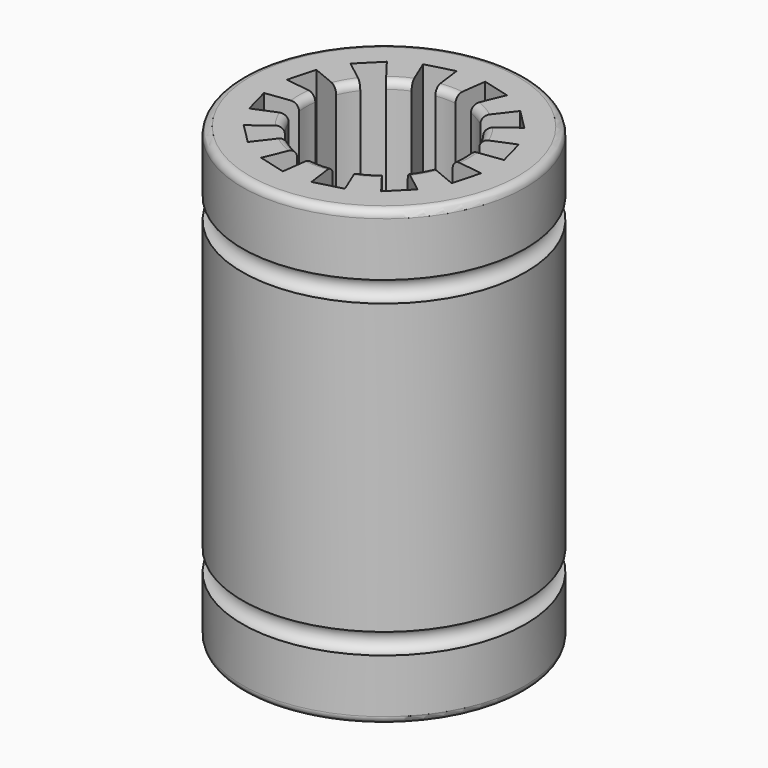
from build123d import *

# Parameters (mm, degrees)
TORUS_R    = 0.55
TORUS001_R = 0.55
SKETCH_R   = 7.5
PAD_DEPTH  = 24
FILLET_R   = 0.4


with BuildPart() as torus:
    # Torus → Torus (revolve)
    with BuildSketch(Plane(origin=(0, 0, 3.8), x_dir=(1, 0, 0), z_dir=(0, -1, 0))):
        with Locations((7.5, 0)):
            Circle(TORUS_R)
    revolve(axis=Axis((0, 0, 3.8), (0, 0, 1)))


with BuildPart() as fusion:
    # Torus001 → Torus001 (revolve)
    with BuildSketch(Plane(origin=(0, 0, 20.2), x_dir=(1, 0, 0), z_dir=(0, -1, 0))):
        with Locations((7.5, 0)):
            Circle(TORUS001_R)
    revolve(axis=Axis((0, 0, 20.2), (0, 0, 1)))

    # Fusion: union Torus
    add(torus.part)


with BuildPart() as cut:
    # Sketch → Pad (new body)
    with BuildSketch(Plane.XY):
        Circle(SKETCH_R)
        with BuildLine():
            ThreePointArc((0.535157, 4.064924), (0, 4.1), (-0.535157, 4.064924))
            Line((-0.757052, 5.75038), (-0.535157, 4.064924))
            Line((-2.219564, 5.358501), (-0.757052, 5.75038))
            Line((-1.569002, 3.787906), (-2.219564, 5.358501))
            ThreePointArc((-1.569002, 3.787906), (-2.05, 3.550704), (-2.495922, 3.252749))
            Line((-2.495922, 3.252749), (-3.530816, 4.601449))
            Line((-3.530816, 4.601449), (-4.601449, 3.530816))
            Line((-4.601449, 3.530816), (-3.252749, 2.495922))
            ThreePointArc((-3.252749, 2.495922), (-3.550704, 2.05), (-3.787906, 1.569002))
            Line((-3.787906, 1.569002), (-5.358501, 2.219564))
            Line((-5.358501, 2.219564), (-5.75038, 0.757052))
            Line((-5.75038, 0.757052), (-4.064924, 0.535157))
            ThreePointArc((-4.064924, 0.535157), (-4.1, 0), (-4.064924, -0.535157))
            Line((-4.064924, -0.535157), (-5.75038, -0.757052))
            Line((-5.75038, -0.757052), (-5.358501, -2.219564))
            Line((-5.358501, -2.219564), (-3.787906, -1.569002))
            ThreePointArc((-3.787906, -1.569002), (-3.550704, -2.05), (-3.252749, -2.495922))
            Line((-3.252749, -2.495922), (-4.601449, -3.530816))
            Line((-4.601449, -3.530816), (-3.530816, -4.601449))
            Line((-3.530816, -4.601449), (-2.495922, -3.252749))
            ThreePointArc((-2.495922, -3.252749), (-2.05, -3.550704), (-1.569002, -3.787906))
            Line((-1.569002, -3.787906), (-2.219564, -5.358501))
            Line((-2.219564, -5.358501), (-0.757052, -5.75038))
            Line((-0.757052, -5.75038), (-0.535157, -4.064924))
            ThreePointArc((-0.535157, -4.064924), (0, -4.1), (0.535157, -4.064924))
            Line((0.535157, -4.064924), (0.757052, -5.75038))
            Line((0.757052, -5.75038), (2.219564, -5.358501))
            Line((2.219564, -5.358501), (1.569002, -3.787906))
            ThreePointArc((1.569002, -3.787906), (2.05, -3.550704), (2.495922, -3.252749))
            Line((3.530816, -4.601449), (2.495922, -3.252749))
            Line((4.601449, -3.530816), (3.530816, -4.601449))
            Line((3.252749, -2.495922), (4.601449, -3.530816))
            ThreePointArc((3.252749, -2.495922), (3.550704, -2.05), (3.787906, -1.569002))
            Line((5.358501, -2.219564), (3.787906, -1.569002))
            Line((5.75038, -0.757052), (5.358501, -2.219564))
            Line((4.064924, -0.535157), (5.75038, -0.757052))
            ThreePointArc((4.064924, -0.535157), (4.1, 0), (4.064924, 0.535157))
            Line((5.75038, 0.757052), (4.064924, 0.535157))
            Line((5.358501, 2.219564), (5.75038, 0.757052))
            Line((3.787906, 1.569002), (5.358501, 2.219564))
            ThreePointArc((3.787906, 1.569002), (3.550704, 2.05), (3.252749, 2.495922))
            Line((4.601449, 3.530816), (3.252749, 2.495922))
            Line((3.530816, 4.601449), (4.601449, 3.530816))
            Line((2.495922, 3.252749), (3.530816, 4.601449))
            ThreePointArc((2.495922, 3.252749), (2.05, 3.550704), (1.569002, 3.787906))
            Line((2.219564, 5.358501), (1.569002, 3.787906))
            Line((0.757052, 5.75038), (2.219564, 5.358501))
            Line((0.535157, 4.064924), (0.757052, 5.75038))
        make_face(mode=Mode.SUBTRACT)
    extrude(amount=PAD_DEPTH)

    # Fillet
    fillet_edges = [cut.edges().sort_by_distance(p)[0] for p in [
        (-4.1, 0, 24),
        (-3.550704, 2.05, 24),
        (-2.05, 3.550704, 24),
        (0, 4.1, 24),
        (2.05, 3.550704, 24),
        (3.550704, 2.05, 24),
        (4.1, 0, 24),
        (3.550704, -2.05, 24),
        (2.05, -3.550704, 24),
        (0, -4.1, 24),
        (-2.05, -3.550704, 24),
        (-3.550704, -2.05, 24),
        (-7.5, 0, 24),
        (-7.5, 0, 0),
        (-4.1, 0, 0),
        (-3.550704, 2.05, 0),
        (-2.05, 3.550704, 0),
        (0, 4.1, 0),
        (2.05, 3.550704, 0),
        (3.550704, 2.05, 0),
        (4.1, 0, 0),
        (3.550704, -2.05, 0),
        (2.05, -3.550704, 0),
        (0, -4.1, 0),
        (-2.05, -3.550704, 0),
        (-3.550704, -2.05, 0),
    ]]
    fillet(fillet_edges, radius=FILLET_R)

    # Cut: cut Fusion
    add(fusion.part, mode=Mode.SUBTRACT)


solid = cut.part
